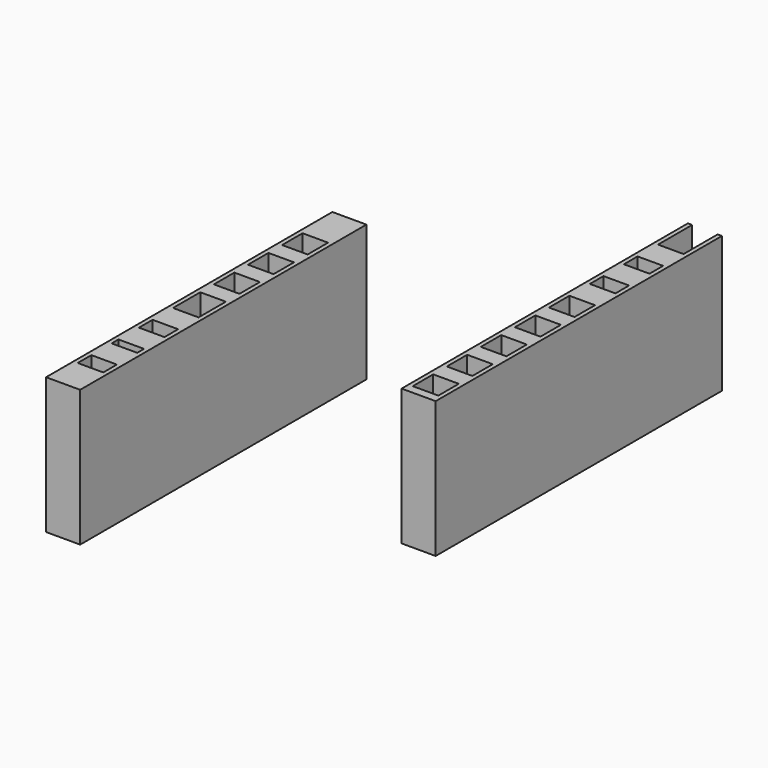
from build123d import *

# Parameters (mm, degrees)
F0_W     = 0.25
F0_H     = 0.508
F0_H_2   = 1.5
F0_W_2   = 1.5
F0_H_3   = 1
F0_H_4   = 1.492
F1_DEPTH = 8


with BuildPart() as f1:
    # F0 (on Top) → F1 (new body)
    with BuildSketch(Plane.XY):
        with Locations((-60.9207099974, -18.8751309893)):
            Rectangle(F0_W, F0_H)
        with Locations((-59.1707099974, -18.8751309893)):
            Rectangle(F0_W, F0_H)
        Polygon((-59.2957099974, -18.6211309893), (-60.7957099974, -18.6211309893), (-60.7957099974, -19.1291309893), (-60.0457099974, -19.1291309893), (-59.2957099974, -19.1291309893), align=None)
        with Locations((-60.9207099974, -17.8711309893)):
            Rectangle(F0_W, F0_H_2)
        with Locations((-59.1707099974, -17.8711309893)):
            Rectangle(F0_W, F0_H_2)
        Polygon((-60.7957099974, 1.8708690107), (-61.0457099974, 1.8708690107), (-61.0457099974, -17.1211309893), (-60.7957099974, -17.1211309893), (-60.7957099974, -16.1211309893), (-60.7957099974, -14.6291309893), (-60.7957099974, -14.1291309893), (-60.7957099974, -12.6291309893), (-60.7957099974, -11.6291309893), (-60.7957099974, -10.1291309893), (-60.7957099974, -8.6291309893), (-60.7957099974, -8.1291309893), (-60.7957099974, -7.1291309893), (-60.7957099974, -6.6291309893), (-60.7957099974, -5.6291309893), (-60.7957099974, -4.6291309893), (-60.7957099974, -3.1291309893), (-60.7957099974, -2.1291309893), (-60.7957099974, -0.6291309893), (-60.7957099974, 0.3708690107), align=None)
        Polygon((-59.0457099974, 1.8708690107), (-59.2957099974, 1.8708690107), (-59.2957099974, 0.3708690107), (-59.2957099974, -0.6291309893), (-59.2957099974, -2.1291309893), (-59.2957099974, -3.1291309893), (-59.2957099974, -4.6291309893), (-59.2957099974, -5.6291309893), (-59.2957099974, -6.6291309893), (-59.2957099974, -7.1291309893), (-59.2957099974, -8.1291309893), (-59.2957099974, -8.6291309893), (-59.2957099974, -10.1291309893), (-59.2957099974, -11.6291309893), (-59.2957099974, -12.6291309893), (-59.2957099974, -14.1291309893), (-59.2957099974, -14.6291309893), (-59.2957099974, -16.1211309893), (-59.2957099974, -17.1211309893), (-59.0457099974, -17.1211309893), align=None)
        with Locations((-60.0457099974, 1.1208690107)):
            Rectangle(F0_W_2, F0_H_2)
        with Locations((-60.0457099974, -5.1291309893)):
            Rectangle(F0_W_2, F0_H_3)
        with Locations((-60.0457099974, -2.6291309893)):
            Rectangle(F0_W_2, F0_H_3)
        with Locations((-60.0457099974, -0.1291309893)):
            Rectangle(F0_W_2, F0_H_3)
        with Locations((-60.0457099974, -7.6291309893)):
            Rectangle(F0_W_2, F0_H_3)
        with Locations((-60.0457099974, -10.8791309893)):
            Rectangle(F0_W_2, F0_H_2)
        with Locations((-60.0457099974, -13.3791309893)):
            Rectangle(F0_W_2, F0_H_2)
        with Locations((-60.0457099974, -15.3751309893)):
            Rectangle(F0_W_2, F0_H_4)
        with Locations((-60.0457099974, -17.8711309893)):
            Rectangle(F0_W_2, F0_H_2)
    extrude(amount=F1_DEPTH)


with BuildPart() as f1b:
    # F0 (on Top) → F1, piece 2 (new body)
    with BuildSketch(Plane.XY):
        with Locations((-47.4938595545, -9.5787308139)):
            Rectangle(F0_W, F0_H)
        with Locations((-45.7438595545, -9.5787308139)):
            Rectangle(F0_W, F0_H)
        with Locations((-47.4938595545, -8.5747308139)):
            Rectangle(F0_W, F0_H_2)
        with Locations((-45.7438595545, -8.5747308139)):
            Rectangle(F0_W, F0_H_2)
        Polygon((-47.3688595545, 11.1672691861), (-47.6188595545, 11.1672691861), (-47.6188595545, -7.8247308139), (-47.3688595545, -7.8247308139), (-47.3688595545, -6.8247308139), (-47.3688595545, -5.3327308139), (-47.3688595545, -4.3327308139), (-47.3688595545, -2.8327308139), (-47.3688595545, -1.8327308139), (-47.3688595545, -0.3327308139), (-47.3688595545, 0.6672691861), (-47.3688595545, 2.1672691861), (-47.3688595545, 2.6672691861), (-47.3688595545, 3.6672691861), (-47.3688595545, 4.6672691861), (-47.3688595545, 6.1672691861), (-47.3688595545, 7.1672691861), (-47.3688595545, 8.6672691861), (-47.3688595545, 9.6672691861), align=None)
        Polygon((-45.6188595545, 11.1672691861), (-45.8688595545, 11.1672691861), (-45.8688595545, 9.6672691861), (-45.8688595545, 8.6672691861), (-45.8688595545, 7.1672691861), (-45.8688595545, 6.1672691861), (-45.8688595545, 4.6672691861), (-45.8688595545, 3.6672691861), (-45.8688595545, 2.6672691861), (-45.8688595545, 2.1672691861), (-45.8688595545, 0.6672691861), (-45.8688595545, -0.3327308139), (-45.8688595545, -1.8327308139), (-45.8688595545, -2.8327308139), (-45.8688595545, -4.3327308139), (-45.8688595545, -5.3327308139), (-45.8688595545, -6.8247308139), (-45.8688595545, -7.8247308139), (-45.6188595545, -7.8247308139), align=None)
        Polygon((-45.8688595545, -9.3247308139), (-47.3688595545, -9.3247308139), (-47.3688595545, -9.8327308139), (-46.6188595545, -9.8327308139), (-45.8688595545, -9.8327308139), align=None)
        with Locations((-46.6188595545, 7.9172691861)):
            Rectangle(F0_W_2, F0_H_2)
        with Locations((-46.6188595545, 5.4172691861)):
            Rectangle(F0_W_2, F0_H_2)
        Polygon((-45.8688595545, 3.6672691861), (-47.3688595545, 3.6672691861), (-47.3688595545, 2.6672691861), (-47.3688595545, 2.1672691861), (-45.8688595545, 2.1672691861), (-45.8688595545, 2.6672691861), align=None)
        with Locations((-46.6188595545, 0.1672691861)):
            Rectangle(F0_W_2, F0_H_3)
        with Locations((-46.6188595545, -2.3327308139)):
            Rectangle(F0_W_2, F0_H_3)
        with Locations((-46.6188595545, -4.8327308139)):
            Rectangle(F0_W_2, F0_H_3)
        with Locations((-46.6188595545, -7.3247308139)):
            Rectangle(F0_W_2, F0_H_3)
    extrude(amount=F1_DEPTH)


solid = Compound([f1.part, f1b.part])
